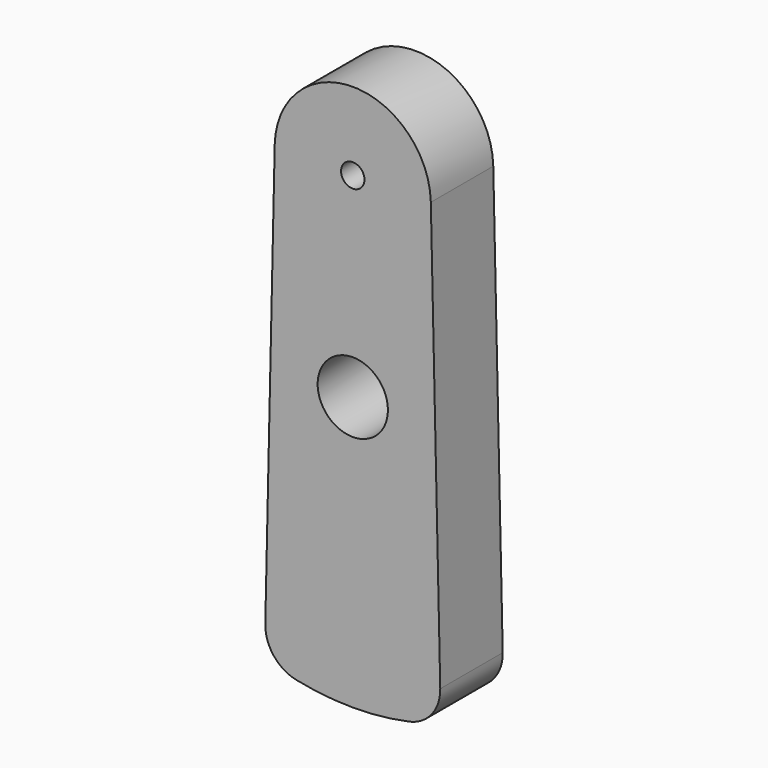
from build123d import *

# Parameters (mm, degrees)
F1_DEPTH = 1
F2_R     = 0.9
F2_R_2   = 0.3
F3_DEPTH = 2.001


with BuildPart() as f1:
    # F0 (on Front) → F1 (new body, symmetric)
    with BuildSketch(Plane.XZ):
        with BuildLine():
            ThreePointArc((1.999509, 5.044331), (0, 7), (-1.999509, 5.044331))
            ThreePointArc((-1.999509, 5.044331), (-0.022167, 3.000123), (2, 5))
            ThreePointArc((2, 5), (1.999877, 5.022167), (1.999509, 5.044331))
        make_face()
        with BuildLine():
            ThreePointArc((-2.241, -5.84804), (-2.02499, -6.491289), (-1.44812, -6.848573))
            ThreePointArc((-1.44812, -6.848573), (0, -7), (1.44812, -6.848573))
            ThreePointArc((1.44812, -6.848573), (2.02499, -6.491289), (2.241, -5.84804))
            Line((2.241, -5.84804), (1.999509, 5.044331))
            ThreePointArc((1.999509, 5.044331), (1.999877, 5.022167), (2, 5))
            ThreePointArc((2, 5), (-0.022167, 3.000123), (-1.999509, 5.044331))
            Line((-1.999509, 5.044331), (-2.241, -5.84804))
        make_face()
    extrude(amount=F1_DEPTH, both=True)

    # F2 (on face) → F3 (cut, through all)
    with BuildSketch(Plane.XZ.offset(1)):
        Circle(F2_R)
        with Locations((0, 5)):
            Circle(F2_R_2)
    extrude(amount=-F3_DEPTH, mode=Mode.SUBTRACT)


solid = f1.part
